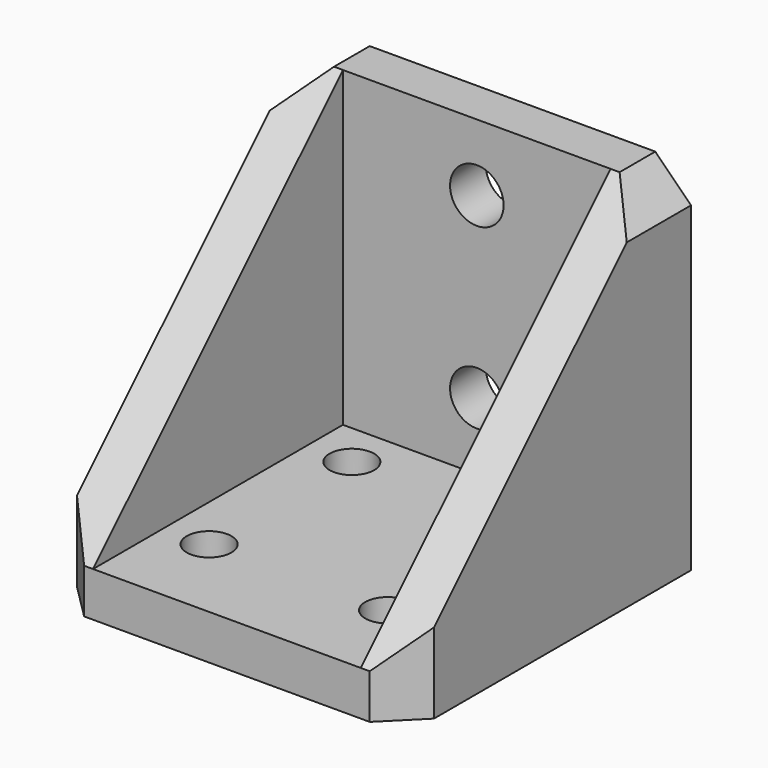
from build123d import *

# Parameters (mm, degrees)
SKETCH_W        = 40
SKETCH_H        = 40
SKETCH_R        = 2.5
PAD_DEPTH       = 5
PAD001_DEPTH    = 35
SKETCH002_R     = 3
POCKET_DEPTH    = 5.001
POCKET001_DEPTH = 40.001
CHAMFER_SIZE    = 4
CHAMFER001_SIZE = 4


with BuildPart() as part:
    # Sketch → Pad (new body)
    with BuildSketch(Plane.XY):
        with Locations((20, 20)):
            Rectangle(SKETCH_W, SKETCH_H)
        with Locations((10, 30)):
            Circle(SKETCH_R, mode=Mode.SUBTRACT)
        with Locations((30, 30)):
            Circle(SKETCH_R, mode=Mode.SUBTRACT)
        with Locations((30, 10)):
            Circle(SKETCH_R, mode=Mode.SUBTRACT)
        with Locations((10, 10)):
            Circle(SKETCH_R, mode=Mode.SUBTRACT)
    extrude(amount=PAD_DEPTH)

    # Sketch001 (on Face10 of Pad) → Pad001 (join)
    with BuildSketch(Plane.XY.offset(5)):
        Polygon((0, 0), (5, 0), (5, 35), (35, 35), (35, 0), (40, 0), (40, 40), (0, 40), align=None)
    extrude(amount=PAD001_DEPTH)

    # Sketch002 (on Face17 of Pad001) → Pocket (cut, through all)
    with BuildSketch(Plane.XZ.offset(-35)):
        with Locations((20, 32.5)):
            Circle(SKETCH002_R)
        with Locations((20, 12.5)):
            Circle(SKETCH002_R)
    extrude(amount=-POCKET_DEPTH, mode=Mode.SUBTRACT)

    # Sketch003 (on Face10 of Pocket) → Pocket001 (cut, through all)
    with BuildSketch(Plane.YZ.offset(40)):
        Polygon((0, 40), (0, 5), (35, 40), align=None)
    extrude(amount=-POCKET001_DEPTH, mode=Mode.SUBTRACT)

    # Chamfer
    chamfer_edges = [part.edges().sort_by_distance(p)[0] for p in [
        (40, 37.5, 40),
        (0, 37.5, 40),
    ]]
    chamfer(chamfer_edges, length=CHAMFER_SIZE)

    # Chamfer001
    chamfer001_edges = [part.edges().sort_by_distance(p)[0] for p in [
        (40, 0, 2.5),
        (0, 0, 2.5),
    ]]
    chamfer(chamfer001_edges, length=CHAMFER001_SIZE)


solid = part.part
